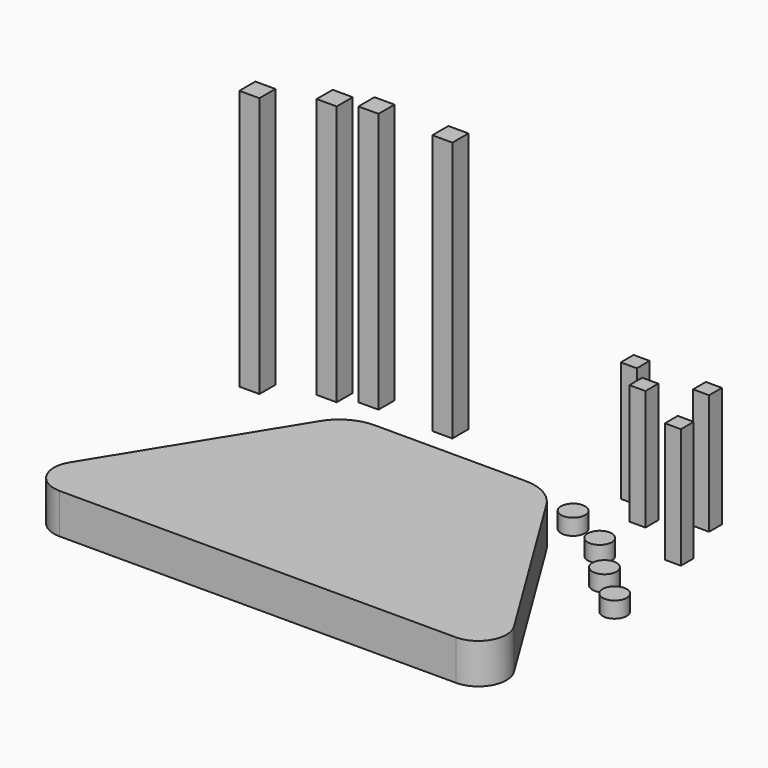
from build123d import *

# Parameters (mm, degrees)
F1_DEPTH = 12.7
F2_W     = 6.35
F2_H     = 6.35
F3_DEPTH = 82.55
F4_W     = 5.08
F4_H     = 5.08
F5_DEPTH = 38.1
F6_R     = 3.81
F7_DEPTH = 5.08


with BuildPart() as f1:
    # F0 (on Top) → F1 (new body)
    with BuildSketch(Plane.XY):
        with BuildLine():
            Line((24.77391, 40.027413), (-23.130385, 40.027413))
            ThreePointArc((-23.130385, 40.027413), (-27.206704, 39.419468), (-30.928238, 37.648547))
            Line((-30.928238, 37.648547), (-30.928238, -36.172587))
            Line((-30.928238, -36.172587), (32.571762, -36.172587))
            Line((32.571762, -36.172587), (32.571762, 37.648547))
            ThreePointArc((32.571762, 37.648547), (28.850229, 39.419468), (24.77391, 40.027413))
        make_face()
        with BuildLine():
            Line((-30.928238, -36.172587), (-30.928238, 37.648547))
            ThreePointArc((-30.928238, 37.648547), (-33.202371, 35.738116), (-35.021242, 33.390108))
            Line((-35.021242, 33.390108), (-69.558544, -22.616326))
            ThreePointArc((-69.558544, -22.616326), (-69.75421, -31.615545), (-61.991635, -36.172587))
            Line((-61.991635, -36.172587), (-30.928238, -36.172587))
        make_face()
        with BuildLine():
            ThreePointArc((36.664767, 33.390108), (34.845896, 35.738116), (32.571762, 37.648547))
            Line((32.571762, 37.648547), (32.571762, -36.172587))
            Line((32.571762, -36.172587), (63.635159, -36.172587))
            ThreePointArc((63.635159, -36.172587), (71.397735, -31.615545), (71.202068, -22.616326))
            Line((71.202068, -22.616326), (36.664767, 33.390108))
        make_face()
    extrude(amount=F1_DEPTH)


with BuildPart() as f3:
    # F2 (on Top) → F3 (new body)
    with BuildSketch(Plane.XY):
        with Locations((-56.515002, 65.97277)):
            Rectangle(F2_W, F2_H)
        with Locations((-45.959663, 69.340013)):
            Rectangle(F2_W, F2_H)
        with Locations((-74.204132, 57.475317)):
            Rectangle(F2_W, F2_H)
        with Locations((-22.038238, 68.71447)):
            Rectangle(F2_W, F2_H)
    extrude(amount=F3_DEPTH)


with BuildPart() as f5:
    # F4 (on Top) → F5 (new body)
    with BuildSketch(Plane.XY):
        with Locations((36.441528, 68.834)):
            Rectangle(F4_W, F4_H)
        with Locations((59.450939, 68.71447)):
            Rectangle(F4_W, F4_H)
        with Locations((45.734938, 60.646236)):
            Rectangle(F4_W, F4_H)
        with Locations((65.367639, 50.157532)):
            Rectangle(F4_W, F4_H)
    extrude(amount=F5_DEPTH)


with BuildPart() as f7:
    # F6 (on Top) → F7 (new body)
    with BuildSketch(Plane.XY):
        with Locations((34.708351, 46.392355)):
            Circle(F6_R)
        with Locations((48.962232, 39.130941)):
            Circle(F6_R)
        with Locations((59.719883, 27.566472)):
            Circle(F6_R)
        with Locations((70.47753, 18.15353)):
            Circle(F6_R)
    extrude(amount=F7_DEPTH)


solid = Compound([f1.part, f3.part, f5.part, f7.part])
